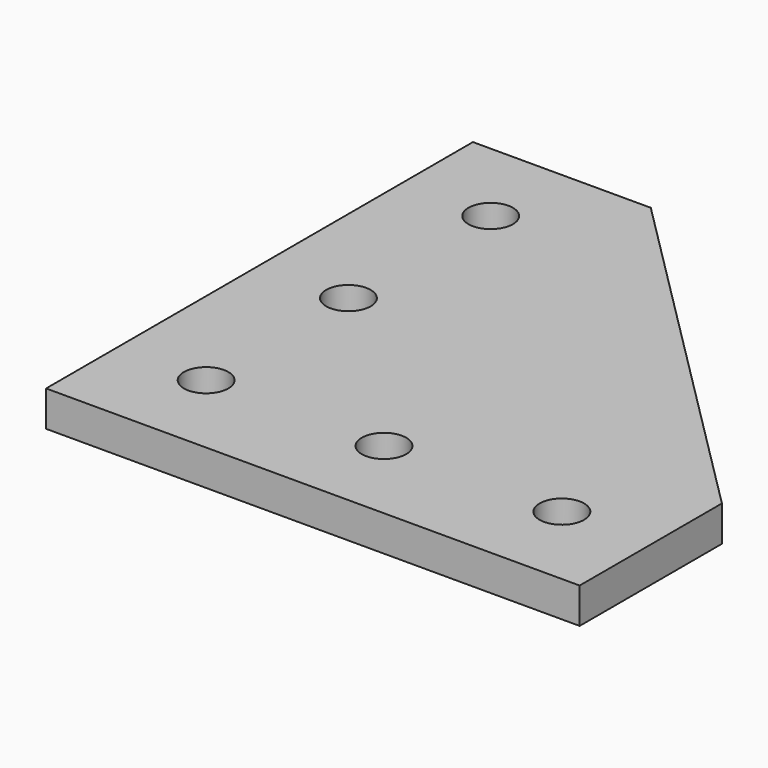
from build123d import *

# Parameters (mm, degrees)
F0_R     = 2.5
F1_DEPTH = 4


with BuildPart() as f1:
    # F0 (on Top) → F1 (new body)
    with BuildSketch(Plane.XY):
        Polygon((0, 60), (0, 0), (60, 0), (60, 20), (20, 60), align=None)
        with Locations((10, 10)):
            Circle(F0_R, mode=Mode.SUBTRACT)
        with Locations((10, 30)):
            Circle(F0_R, mode=Mode.SUBTRACT)
        with Locations((30, 10)):
            Circle(F0_R, mode=Mode.SUBTRACT)
        with Locations((50, 10)):
            Circle(F0_R, mode=Mode.SUBTRACT)
        with Locations((10, 50)):
            Circle(F0_R, mode=Mode.SUBTRACT)
    extrude(amount=F1_DEPTH)


solid = f1.part
